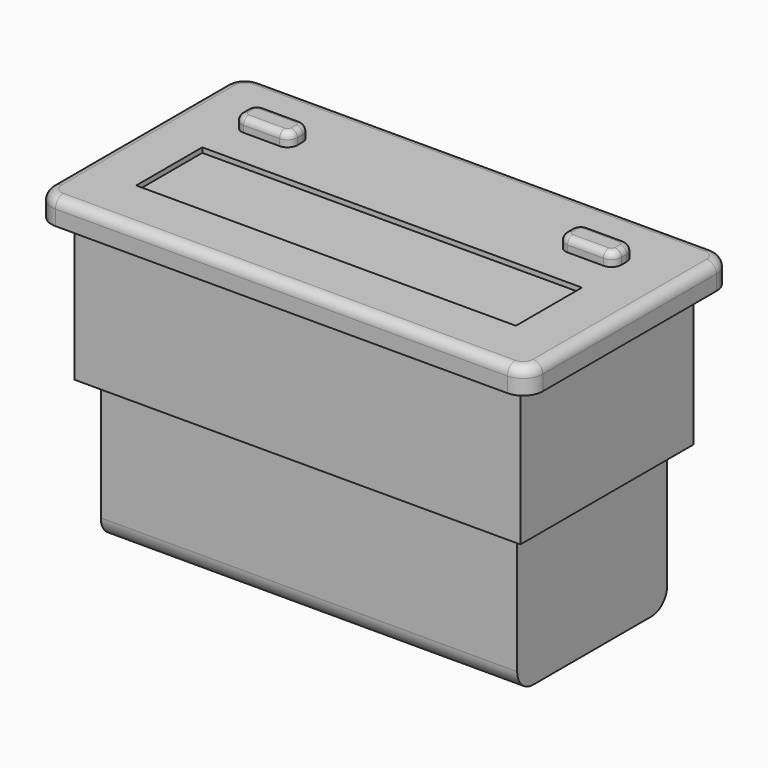
from build123d import *

# Parameters (mm, degrees)
F1_DEPTH  = 3.8
F2_R      = 1.5
F3_W      = 68
F3_H      = 33
F4_DEPTH  = 21.7
F5_W      = 63.5
F5_H      = 28.6
F6_DEPTH  = 21.7
F7_R      = 3
F9_DEPTH  = 2
F10_R     = 1
F8_W      = 57.9
F8_H      = 12.6
F11_DEPTH = 0.75


with BuildPart() as f1:
    # F0 (on Top) → F1 (new body)
    with BuildSketch(Plane.XY):
        with BuildLine():
            Line((-34.45, -19.55), (34.45, -19.55))
            ThreePointArc((34.45, -19.55), (36.57132, -18.67132), (37.45, -16.55))
            Line((37.45, -16.55), (37.45, 16.55))
            ThreePointArc((37.45, 16.55), (36.57132, 18.67132), (34.45, 19.55))
            Line((34.45, 19.55), (-34.45, 19.55))
            ThreePointArc((-34.45, 19.55), (-36.57132, 18.67132), (-37.45, 16.55))
            Line((-37.45, 16.55), (-37.45, -16.55))
            ThreePointArc((-37.45, -16.55), (-36.57132, -18.67132), (-34.45, -19.55))
        make_face()
    extrude(amount=F1_DEPTH)

    # F2
    f2_edges = [f1.edges().sort_by_distance(p)[0] for p in [
        (0, -19.55, 3.8),
        (36.57132, -18.67132, 3.8),
        (37.45, 0, 3.8),
        (36.57132, 18.67132, 3.8),
        (0, 19.55, 3.8),
        (-36.57132, 18.67132, 3.8),
        (-37.45, 0, 3.8),
        (-36.57132, -18.67132, 3.8),
    ]]
    fillet(f2_edges, radius=F2_R)

    # F3 (on face) → F4 (join)
    with BuildSketch(Plane(origin=(0, 0, 0), x_dir=(1, 0, 0), z_dir=(0, 0, -1))):
        Rectangle(F3_W, F3_H)
    extrude(amount=F4_DEPTH)

    # F5 (on face) → F6 (join)
    with BuildSketch(Plane(origin=(0, 0, -21.7), x_dir=(1, 0, 0), z_dir=(0, 0, -1))):
        Rectangle(F5_W, F5_H)
    extrude(amount=F6_DEPTH)

    # F7
    f7_edges = [f1.edges().sort_by_distance(p)[0] for p in [
        (0, -14.3, -43.4),
        (0, 14.3, -43.4),
    ]]
    fillet(f7_edges, radius=F7_R)

    # F8 (on face) → F9 (join)
    with BuildSketch(Plane.XY.offset(3.8)):
        with BuildLine():
            Line((21.95, 7.55), (27.45, 7.55))
            ThreePointArc((27.45, 7.55), (28.51066, 7.98934), (28.95, 9.05))
            Line((28.95, 9.05), (28.95, 10.05))
            ThreePointArc((28.95, 10.05), (28.51066, 11.11066), (27.45, 11.55))
            Line((27.45, 11.55), (21.95, 11.55))
            ThreePointArc((21.95, 11.55), (20.88934, 11.11066), (20.45, 10.05))
            Line((20.45, 10.05), (20.45, 9.05))
            ThreePointArc((20.45, 9.05), (20.88934, 7.98934), (21.95, 7.55))
        make_face()
        with BuildLine():
            ThreePointArc((-21.95, 7.55), (-20.88934, 7.98934), (-20.45, 9.05))
            Line((-20.45, 9.05), (-20.45, 10.05))
            ThreePointArc((-20.45, 10.05), (-20.88934, 11.11066), (-21.95, 11.55))
            Line((-21.95, 11.55), (-27.45, 11.55))
            ThreePointArc((-27.45, 11.55), (-28.51066, 11.11066), (-28.95, 10.05))
            Line((-28.95, 10.05), (-28.95, 9.05))
            ThreePointArc((-28.95, 9.05), (-28.51066, 7.98934), (-27.45, 7.55))
            Line((-27.45, 7.55), (-21.95, 7.55))
        make_face()
    extrude(amount=F9_DEPTH)

    # F10
    f10_edges = [f1.edges().sort_by_distance(p)[0] for p in [
        (20.88934, 7.98934, 5.8),
        (24.7, 7.55, 5.8),
        (28.51066, 7.98934, 5.8),
        (28.95, 9.55, 5.8),
        (28.51066, 11.11066, 5.8),
        (24.7, 11.55, 5.8),
        (20.88934, 11.11066, 5.8),
        (20.45, 9.55, 5.8),
        (-20.88934, 7.98934, 5.8),
        (-20.45, 9.55, 5.8),
        (-20.88934, 11.11066, 5.8),
        (-24.7, 11.55, 5.8),
        (-28.51066, 11.11066, 5.8),
        (-28.95, 9.55, 5.8),
        (-28.51066, 7.98934, 5.8),
        (-24.7, 7.55, 5.8),
    ]]
    fillet(f10_edges, radius=F10_R)

    # F8 (on face) → F11 (cut)
    with BuildSketch(Plane.XY.offset(3.8)):
        with Locations((0, -4.75)):
            Rectangle(F8_W, F8_H)
    extrude(amount=-F11_DEPTH, mode=Mode.SUBTRACT)


solid = f1.part
